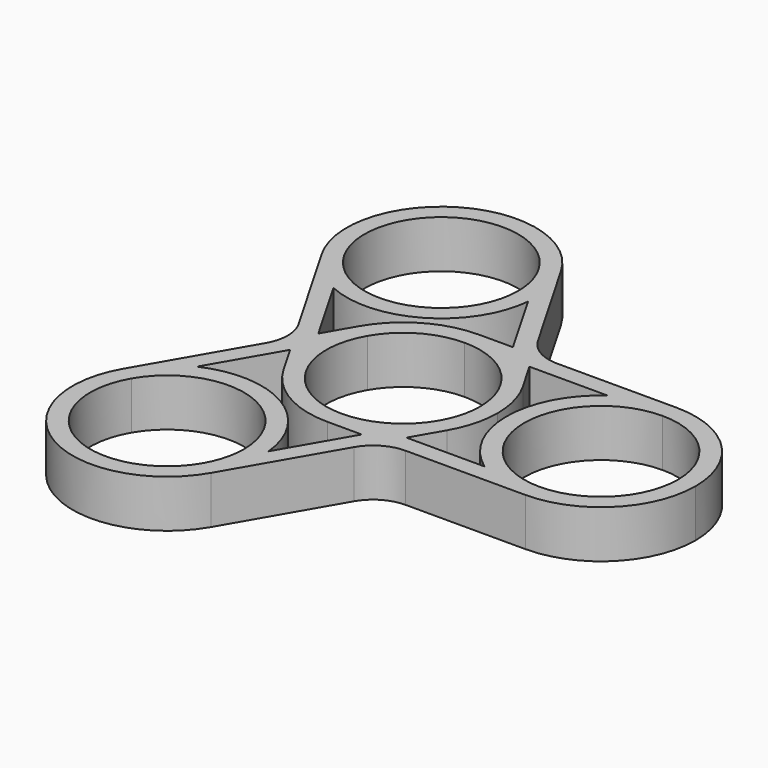
from build123d import *

# Parameters (mm, degrees)
F1_DEPTH = 6.858


with BuildPart() as f1:
    # F0 (on Top) → F1 (new body)
    with BuildSketch(Plane.XY):
        with BuildLine():
            Line((7.845612808, 13.589), (9.3120824918, 11.049))
            Line((9.3120824918, 11.049), (20.5372149568, 11.049))
            ThreePointArc((20.5372149568, 11.049), (24.2937214826, 12.9384269137), (28.448, 13.589))
            Line((28.448, 13.589), (11.2282435216, 13.589))
            Line((11.2282435216, 13.589), (7.845612808, 13.589))
        make_face()
        with BuildLine():
            Line((-0.699892792, 23.3102498756), (4.9126734405, 13.589))
            Line((4.9126734405, 13.589), (7.845612808, 13.589))
            Line((7.845612808, 13.589), (6.1542974512, 16.5184441296))
            Line((6.1542974512, 16.5184441296), (-2.455580788, 31.4311906869))
            ThreePointArc((-2.455580788, 31.4311906869), (-1.0980339466, 28.1537826908), (-0.635, 24.6366906869))
            ThreePointArc((-0.635, 24.6366906869), (-0.6512328936, 23.9726770762), (-0.699892792, 23.3102498756))
        make_face()
        with BuildLine():
            Line((20.5372149568, -11.049), (9.3120824918, -11.049))
            Line((9.3120824918, -11.049), (7.845612808, -13.589))
            Line((7.845612808, -13.589), (11.2331577775, -13.589))
            Line((11.2331577775, -13.589), (28.448, -13.589))
            ThreePointArc((28.448, -13.589), (24.2937214826, -12.9384269137), (20.5372149568, -11.049))
        make_face()
        with BuildLine():
            Line((7.845612808, -13.589), (4.9126734405, -13.589))
            Line((4.9126734405, -13.589), (-0.699892792, -23.3102498756))
            ThreePointArc((-0.699892792, -23.3102498756), (-0.6512328936, -23.9726770762), (-0.635, -24.6366906869))
            ThreePointArc((-0.635, -24.6366906869), (-1.0980339466, -28.1537826908), (-2.455580788, -31.4311906869))
            Line((-2.455580788, -31.4311906869), (6.1518403233, -16.5227))
            Line((6.1518403233, -16.5227), (7.845612808, -13.589))
        make_face()
        with BuildLine():
            ThreePointArc((28.448, 13.589), (24.2937214826, 12.9384269137), (20.5372149568, 11.049))
            Line((20.5372149568, 11.049), (28.448, 11.049))
            ThreePointArc((28.448, 11.049), (36.2608228253, 7.8128228253), (39.497, 0))
            ThreePointArc((39.497, 0), (36.2608228253, -7.8128228253), (28.448, -11.049))
            Line((28.448, -11.049), (20.5372149568, -11.049))
            ThreePointArc((20.5372149568, -11.049), (24.2937214826, -12.9384269137), (28.448, -13.589))
            ThreePointArc((28.448, -13.589), (38.0568740495, -9.6088740495), (42.037, 0))
            ThreePointArc((42.037, 0), (38.0568740495, 9.6088740495), (28.448, 13.589))
        make_face()
        with BuildLine():
            Line((6.1542974512, 16.5184441296), (7.845612808, 13.589))
            Line((7.845612808, 13.589), (11.2282435216, 13.589))
            ThreePointArc((11.2282435216, 13.589), (8.298799392, 14.3739421888), (6.1542974512, 16.5184441296))
        make_face()
        with BuildLine():
            Line((-4.6552853136, 30.1611906869), (-0.699892792, 23.3102498756))
            ThreePointArc((-0.699892792, 23.3102498756), (-0.6512328936, 23.9726770762), (-0.635, 24.6366906869))
            ThreePointArc((-0.635, 24.6366906869), (-1.0980339466, 28.1537826908), (-2.455580788, 31.4311906869))
            ThreePointArc((-2.455580788, 31.4311906869), (-21.0185, 36.4051098989), (-25.992419212, 17.8421906869))
            ThreePointArc((-25.992419212, 17.8421906869), (-23.3518671335, 14.5697664996), (-19.8373221648, 12.2612498756))
            Line((-19.8373221648, 12.2612498756), (-23.7927146864, 19.1121906869))
            ThreePointArc((-23.7927146864, 19.1121906869), (-19.7485, 34.2054053733), (-4.6552853136, 30.1611906869))
        make_face()
        with BuildLine():
            Line((11.2331577775, -13.589), (7.845612808, -13.589))
            Line((7.845612808, -13.589), (6.1518403233, -16.5227))
            ThreePointArc((6.1518403233, -16.5227), (8.2994577775, -14.3750825458), (11.2331577775, -13.589))
        make_face()
        with BuildLine():
            ThreePointArc((-0.635, -24.6366906869), (-0.6512328936, -23.9726770762), (-0.699892792, -23.3102498756))
            Line((-0.699892792, -23.3102498756), (-4.6552853136, -30.1611906869))
            ThreePointArc((-4.6552853136, -30.1611906869), (-19.7485, -34.2054053733), (-23.7927146864, -19.1121906869))
            Line((-23.7927146864, -19.1121906869), (-19.8373221648, -12.2612498756))
            ThreePointArc((-19.8373221648, -12.2612498756), (-23.3518671335, -14.5697664996), (-25.992419212, -17.8421906869))
            ThreePointArc((-25.992419212, -17.8421906869), (-21.0185, -36.4051098989), (-2.455580788, -31.4311906869))
            ThreePointArc((-2.455580788, -31.4311906869), (-1.0980339466, -28.1537826908), (-0.635, -24.6366906869))
        make_face()
        with BuildLine():
            Line((-15.691225616, 0), (-14.2247559323, 2.54))
            Line((-14.2247559323, 2.54), (-19.8373221648, 12.2612498756))
            ThreePointArc((-19.8373221648, 12.2612498756), (-23.3518671335, 14.5697664996), (-25.992419212, 17.8421906869))
            Line((-25.992419212, 17.8421906869), (-17.3849981008, 2.9337))
            Line((-17.3849981008, 2.9337), (-15.691225616, 0))
        make_face()
        with BuildLine():
            Line((-19.8373221648, -12.2612498756), (-14.2247559323, -2.54))
            Line((-14.2247559323, -2.54), (-15.691225616, 0))
            Line((-15.691225616, 0), (-17.3849981008, -2.9337))
            Line((-17.3849981008, -2.9337), (-25.992419212, -17.8421906869))
            ThreePointArc((-25.992419212, -17.8421906869), (-23.3518671335, -14.5697664996), (-19.8373221648, -12.2612498756))
        make_face()
        with BuildLine():
            Line((-17.3849981008, -2.9337), (-15.691225616, 0))
            Line((-15.691225616, 0), (-17.3849981008, 2.9337))
            ThreePointArc((-17.3849981008, 2.9337), (-16.5989155549, 0), (-17.3849981008, -2.9337))
        make_face()
        with BuildLine():
            ThreePointArc((-13.524107208, -1.3264408113), (-13.589, 0), (-13.524107208, 1.3264408113))
            Line((-13.524107208, 1.3264408113), (-14.2247559323, 2.54))
            Line((-14.2247559323, 2.54), (-15.691225616, 0))
            Line((-15.691225616, 0), (-14.2247559323, -2.54))
            Line((-14.2247559323, -2.54), (-13.524107208, -1.3264408113))
        make_face()
        with BuildLine():
            Line((-13.524107208, -1.3264408113), (-12.7582862486, 0))
            Line((-12.7582862486, 0), (-13.524107208, 1.3264408113))
            ThreePointArc((-13.524107208, 1.3264408113), (-13.589, 0), (-13.524107208, -1.3264408113))
        make_face()
        with BuildLine():
            ThreePointArc((-9.5687146864, 5.5245), (-5.5245, 9.5687146864), (0, 11.049))
            Line((0, 11.049), (6.3791431243, 11.049))
            Line((6.3791431243, 11.049), (5.6133221648, 12.3754408113))
            ThreePointArc((5.6133221648, 12.3754408113), (2.8715027264, 13.2821456509), (0, 13.589))
            ThreePointArc((0, 13.589), (-6.7945, 11.768419212), (-11.768419212, 6.7945))
            ThreePointArc((-11.768419212, 6.7945), (-12.9384269137, 4.1542785174), (-13.524107208, 1.3264408113))
            Line((-13.524107208, 1.3264408113), (-12.7582862486, 0))
            Line((-12.7582862486, 0), (-9.5687146864, 5.5245))
        make_face()
        with BuildLine():
            ThreePointArc((-9.5687146864, -5.5245), (-11.049, 0), (-9.5687146864, 5.5245))
            Line((-9.5687146864, 5.5245), (-12.7582862486, 0))
            Line((-12.7582862486, 0), (-9.5687146864, -5.5245))
        make_face()
        with BuildLine():
            Line((-14.2247559323, 2.54), (-13.524107208, 1.3264408113))
            ThreePointArc((-13.524107208, 1.3264408113), (-12.9384269137, 4.1542785174), (-11.768419212, 6.7945))
            Line((-11.768419212, 6.7945), (-14.2247559323, 2.54))
        make_face()
        with BuildLine():
            ThreePointArc((-11.768419212, -6.7945), (-12.9384269137, -4.1542785174), (-13.524107208, -1.3264408113))
            Line((-13.524107208, -1.3264408113), (-14.2247559323, -2.54))
            Line((-14.2247559323, -2.54), (-11.768419212, -6.7945))
        make_face()
        with BuildLine():
            Line((6.3791431243, -11.049), (0, -11.049))
            ThreePointArc((0, -11.049), (-5.5245, -9.5687146864), (-9.5687146864, -5.5245))
            Line((-9.5687146864, -5.5245), (-12.7582862486, 0))
            Line((-12.7582862486, 0), (-13.524107208, -1.3264408113))
            ThreePointArc((-13.524107208, -1.3264408113), (-12.9384269137, -4.1542785174), (-11.768419212, -6.7945))
            ThreePointArc((-11.768419212, -6.7945), (-6.7945, -11.768419212), (0, -13.589))
            ThreePointArc((0, -13.589), (2.8715027264, -13.2821456509), (5.6133221648, -12.3754408113))
            Line((5.6133221648, -12.3754408113), (6.3791431243, -11.049))
        make_face()
        with BuildLine():
            Line((6.3791431243, -11.049), (9.5687146864, -5.5245))
            ThreePointArc((9.5687146864, -5.5245), (5.5245, -9.5687146864), (0, -11.049))
            Line((0, -11.049), (6.3791431243, -11.049))
        make_face()
        with BuildLine():
            Line((7.9107850432, -11.049), (6.3791431243, -11.049))
            Line((6.3791431243, -11.049), (5.6133221648, -12.3754408113))
            ThreePointArc((5.6133221648, -12.3754408113), (6.7945, -11.768419212), (7.9107850432, -11.049))
        make_face()
        with BuildLine():
            Line((9.3120824918, -11.049), (7.9107850432, -11.049))
            ThreePointArc((7.9107850432, -11.049), (6.7945, -11.768419212), (5.6133221648, -12.3754408113))
            Line((5.6133221648, -12.3754408113), (4.9126734405, -13.589))
            Line((4.9126734405, -13.589), (7.845612808, -13.589))
            Line((7.845612808, -13.589), (9.3120824918, -11.049))
        make_face()
        with BuildLine():
            Line((4.9126734405, -13.589), (5.6133221648, -12.3754408113))
            ThreePointArc((5.6133221648, -12.3754408113), (2.8715027264, -13.2821456509), (0, -13.589))
            Line((0, -13.589), (4.9126734405, -13.589))
        make_face()
        with BuildLine():
            ThreePointArc((11.768419212, -6.7945), (10.0669241873, -9.1278671335), (7.9107850432, -11.049))
            Line((7.9107850432, -11.049), (9.3120824918, -11.049))
            Line((9.3120824918, -11.049), (11.768419212, -6.7945))
        make_face()
        with BuildLine():
            ThreePointArc((9.5687146864, 5.5245), (10.6725144547, 2.8596916293), (11.049, 0))
            ThreePointArc((11.049, 0), (10.6725144547, -2.8596916293), (9.5687146864, -5.5245))
            Line((9.5687146864, -5.5245), (6.3791431243, -11.049))
            Line((6.3791431243, -11.049), (7.9107850432, -11.049))
            ThreePointArc((7.9107850432, -11.049), (10.0669241873, -9.1278671335), (11.768419212, -6.7945))
            ThreePointArc((11.768419212, -6.7945), (13.1259660534, -3.5170920039), (13.589, 0))
            ThreePointArc((13.589, 0), (13.1259660534, 3.5170920039), (11.768419212, 6.7945))
            ThreePointArc((11.768419212, 6.7945), (10.0669241873, 9.1278671335), (7.9107850432, 11.049))
            Line((7.9107850432, 11.049), (6.3791431243, 11.049))
            Line((6.3791431243, 11.049), (9.5687146864, 5.5245))
        make_face()
        with BuildLine():
            ThreePointArc((5.6133221648, 12.3754408113), (6.7945, 11.768419212), (7.9107850432, 11.049))
            Line((7.9107850432, 11.049), (9.3120824918, 11.049))
            Line((9.3120824918, 11.049), (7.845612808, 13.589))
            Line((7.845612808, 13.589), (4.9126734405, 13.589))
            Line((4.9126734405, 13.589), (5.6133221648, 12.3754408113))
        make_face()
        with BuildLine():
            Line((5.6133221648, 12.3754408113), (6.3791431243, 11.049))
            Line((6.3791431243, 11.049), (7.9107850432, 11.049))
            ThreePointArc((7.9107850432, 11.049), (6.7945, 11.768419212), (5.6133221648, 12.3754408113))
        make_face()
        with BuildLine():
            ThreePointArc((0, 11.049), (5.5245, 9.5687146864), (9.5687146864, 5.5245))
            Line((9.5687146864, 5.5245), (6.3791431243, 11.049))
            Line((6.3791431243, 11.049), (0, 11.049))
        make_face()
        with BuildLine():
            ThreePointArc((0, 13.589), (2.8715027264, 13.2821456509), (5.6133221648, 12.3754408113))
            Line((5.6133221648, 12.3754408113), (4.9126734405, 13.589))
            Line((4.9126734405, 13.589), (0, 13.589))
        make_face()
        with BuildLine():
            Line((9.3120824918, 11.049), (7.9107850432, 11.049))
            ThreePointArc((7.9107850432, 11.049), (10.0669241873, 9.1278671335), (11.768419212, 6.7945))
            Line((11.768419212, 6.7945), (9.3120824918, 11.049))
        make_face()
        with BuildLine():
            Line((28.448, 11.049), (20.5372149568, 11.049))
            ThreePointArc((20.5372149568, 11.049), (14.859, 0), (20.5372149568, -11.049))
            Line((20.5372149568, -11.049), (28.448, -11.049))
            ThreePointArc((28.448, -11.049), (17.399, 0), (28.448, 11.049))
        make_face()
        with BuildLine():
            ThreePointArc((-19.8373221648, 12.2612498756), (-7.4295, 12.8682714748), (-0.699892792, 23.3102498756))
            Line((-0.699892792, 23.3102498756), (-4.6552853136, 30.1611906869))
            ThreePointArc((-4.6552853136, 30.1611906869), (-3.5514855453, 27.4963823162), (-3.175, 24.6366906869))
            ThreePointArc((-3.175, 24.6366906869), (-11.3643083707, 13.9641762322), (-23.7927146864, 19.1121906869))
            Line((-23.7927146864, 19.1121906869), (-19.8373221648, 12.2612498756))
        make_face()
        with BuildLine():
            Line((-4.6552853136, -30.1611906869), (-0.699892792, -23.3102498756))
            ThreePointArc((-0.699892792, -23.3102498756), (-7.4295, -12.8682714748), (-19.8373221648, -12.2612498756))
            Line((-19.8373221648, -12.2612498756), (-23.7927146864, -19.1121906869))
            ThreePointArc((-23.7927146864, -19.1121906869), (-11.3643083707, -13.9641762322), (-3.175, -24.6366906869))
            ThreePointArc((-3.175, -24.6366906869), (-3.5514855453, -27.4963823162), (-4.6552853136, -30.1611906869))
        make_face()
    extrude(amount=F1_DEPTH)


solid = f1.part
